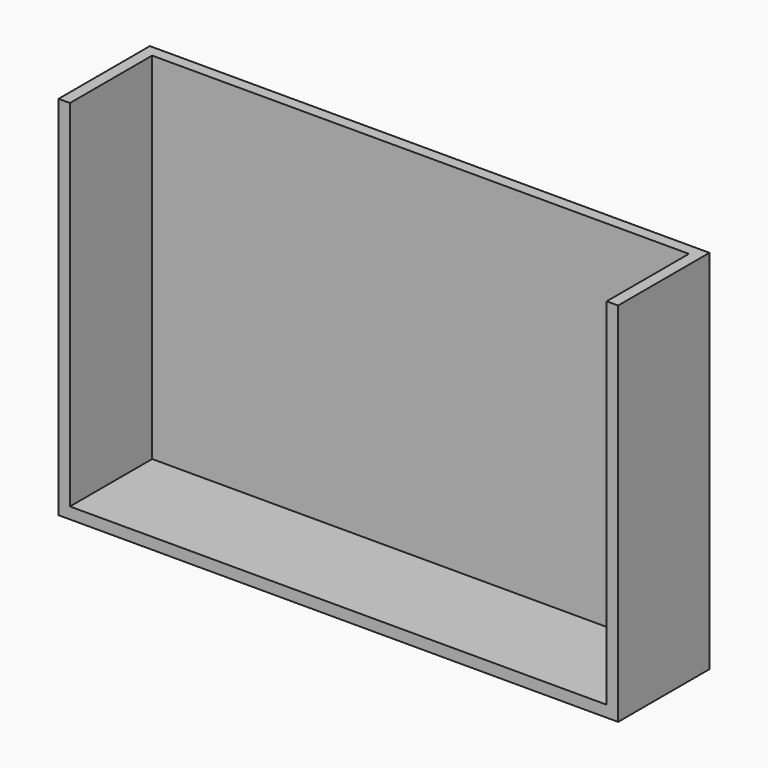
from build123d import *

# Parameters (mm, degrees)
F0_W     = 124.509196
F0_H     = 81.567452
F1_DEPTH = 25.4
F2_T     = -2.54


with BuildPart() as f1:
    # F0 (on Front) → F1 (new body)
    with BuildSketch(Plane.XZ):
        with Locations((26.522668, 16.497325)):
            Rectangle(F0_W, F0_H)
    extrude(amount=F1_DEPTH)

    # F2
    f2_openings = [f1.faces().sort_by_distance(p)[0] for p in [
        (26.522668, -12.7, 57.281051),
        (26.522668, -25.4, 16.497325),
    ]]
    offset(amount=F2_T, openings=f2_openings)


solid = f1.part
